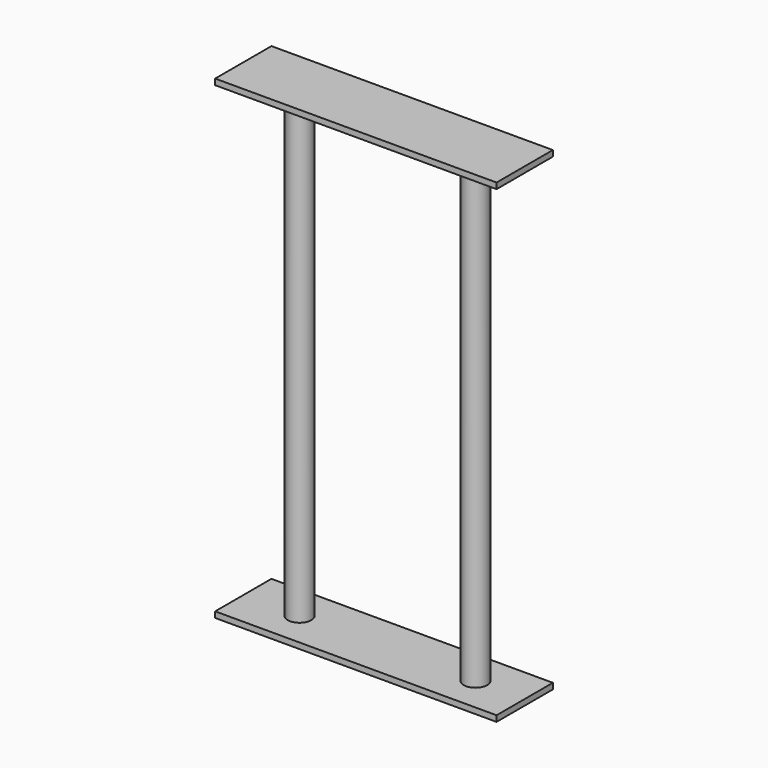
from build123d import *

# Parameters (mm, degrees)
F0_W     = 304.8
F0_H     = 76.2
F1_DEPTH = 6.35
F2_R     = 12.7
F3_DEPTH = 508
F4_W     = 304.8
F4_H     = 76.2
F4_R     = 12.7
F5_DEPTH = 6.35


with BuildPart() as f1:
    # F0 (on Top) → F1 (new body)
    with BuildSketch(Plane.XY):
        Rectangle(F0_W, F0_H)
    extrude(amount=F1_DEPTH)

    # F2 (on face) → F3 (join)
    with BuildSketch(Plane.XY.offset(6.35)):
        with Locations((-91.44, 0)):
            Circle(F2_R)
        with Locations((99.06, 0)):
            Circle(F2_R)
    extrude(amount=F3_DEPTH)

    # F4 (on face) → F5 (join)
    with BuildSketch(Plane.XY.offset(514.35)):
        Rectangle(F4_W, F4_H)
        with Locations((-91.44, 0)):
            Circle(F4_R, mode=Mode.SUBTRACT)
    extrude(amount=-F5_DEPTH)


solid = f1.part
